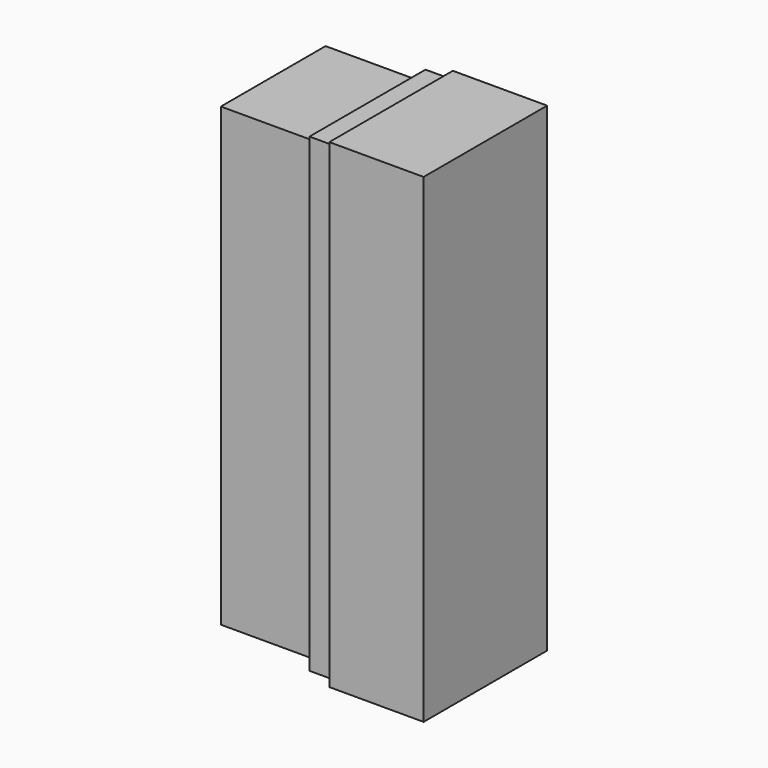
from build123d import *

# Parameters (mm, degrees)
F0_W     = 50
F0_H     = 5
F2_SIZE2 = 1
F2_SIZE  = 1
F3_W     = 32.7534852549
F3_H     = 101.7634943128
F4_DEPTH = 25
F5_T     = -2.5
F6_W     = 32.7534852549
F6_H     = 101.7634943128
F6_W_2   = 30.7534852549
F6_H_2   = 99.7634943128
F7_DEPTH = 5
F8_W     = 27.7534852549
F8_H     = 96.7634943128
F9_DEPTH = 25


with BuildPart() as f1:
    # F0 (on Front) → F1 (revolve)
    with BuildSketch(Plane.XZ):
        with Locations((25, 2.5)):
            Rectangle(F0_W, F0_H)
    revolve(axis=Axis((25, 0, 0), (-1, 0, 0)))

    # F2
    f2_edges = [f1.edges().sort_by_distance(p)[0] for p in [
        (50, 0, -5),
        (0, 0, -5),
    ]]
    chamfer(f2_edges, length=F2_SIZE, length2=F2_SIZE2)


with BuildPart() as f4:
    # F3 (on Right) → F4 (new body)
    with BuildSketch(Plane.YZ):
        with Locations((-28.549822513, 1.4887973666)):
            Rectangle(F3_W, F3_H)
    extrude(amount=F4_DEPTH)

    # F5
    f5_openings = [f4.faces().sort_by_distance(p)[0] for p in [
        (0, -28.549823, 1.488797),
    ]]
    offset(amount=F5_T, openings=f5_openings)

    # F6 (on face) → F7 (cut)
    with BuildSketch(Plane(origin=(0, 0, 0), x_dir=(0, -1, 0), z_dir=(-1, 0, 0))):
        with Locations((28.549822513, 1.4887973666)):
            Rectangle(F6_W, F6_H)
        with Locations((28.549822513, 1.4887973666)):
            Rectangle(F6_W_2, F6_H_2, mode=Mode.SUBTRACT)
    extrude(amount=-F7_DEPTH, mode=Mode.SUBTRACT)


with BuildPart() as f9:
    # F8 (on face) → F9 (new body)
    with BuildSketch(Plane(origin=(5, 0, 0), x_dir=(0, -1, 0), z_dir=(-1, 0, 0))):
        with Locations((28.549822513, 1.4887973666)):
            Rectangle(F8_W, F8_H)
    extrude(amount=F9_DEPTH)


solid = Compound([f4.part, f9.part])
